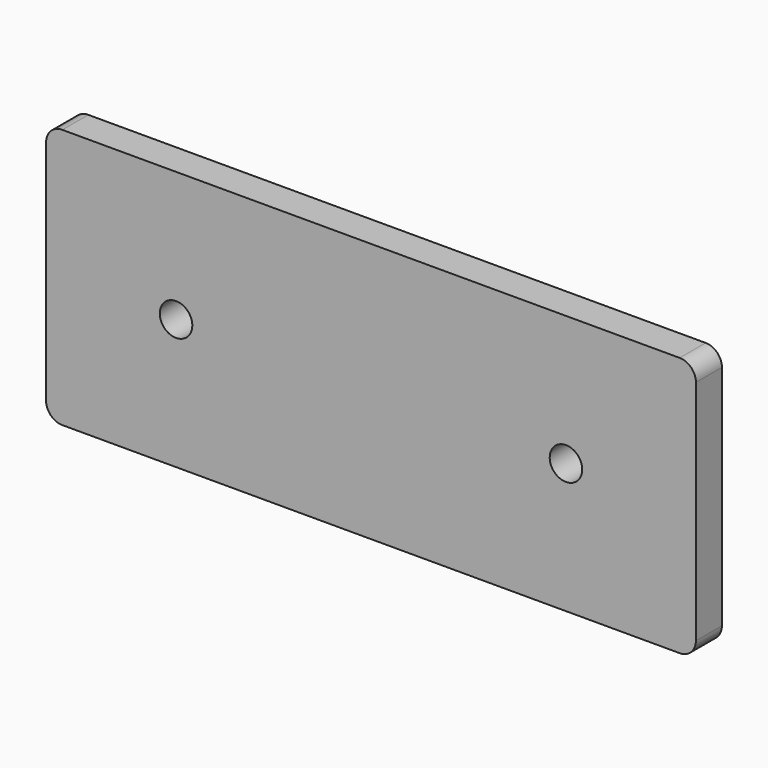
from build123d import *

# Parameters (mm, degrees)
F0_W     = 254
F0_H     = 101.6
F1_DEPTH = 12.7
F2_R     = 6.35
F4_D     = 12.7


with BuildPart() as f1:
    # F0 (on Front) → F1 (new body)
    with BuildSketch(Plane.XZ):
        with Locations((-73.507372, 34.317043)):
            Rectangle(F0_W, F0_H)
    extrude(amount=F1_DEPTH)

    # F2
    f2_edges = [f1.edges().sort_by_distance(p)[0] for p in [
        (-200.507372, -6.35, 85.117043),
        (-200.507372, -6.35, -16.482957),
        (53.492628, -6.35, -16.482957),
        (53.492628, -6.35, 85.117043),
    ]]
    fillet(f2_edges, radius=F2_R)

    # F4 (through all)
    with Locations(Plane.XZ.offset(12.7)):
        with Locations((-149.707372, 34.317043), (2.692628, 34.317043)):
            Hole(F4_D / 2)


solid = f1.part
